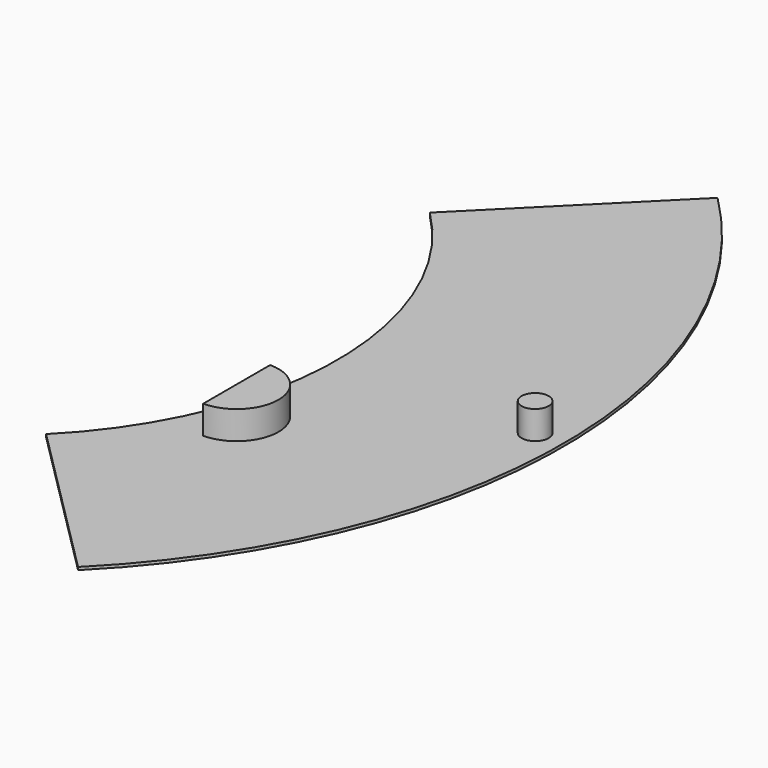
from build123d import *

# Parameters (mm, degrees)
F1_DEPTH = 0.635
F4_DEPTH = 25.4
F2_R     = 3.048
F6_DEPTH = 6.35
F7_DEPTH = 6.35


with BuildPart() as f1:
    # F0 (on Top) → F1 (new body)
    with BuildSketch(Plane.XY):
        with BuildLine():
            Line((0, 0), (89.802561, -89.802561))
            ThreePointArc((89.802561, -89.802561), (127, 0), (89.802561, 89.802561))
            Line((89.802561, 89.802561), (0, 0))
        make_face()
    extrude(amount=F1_DEPTH)

    # F3 (on face) → F4 (intersect)
    with BuildSketch(Plane.XY.offset(0.635)):
        with BuildLine():
            ThreePointArc((53.881537, 53.881537), (76.2, 0), (53.881537, -53.881537))
            Line((53.881537, -53.881537), (89.802561, -89.802561))
            ThreePointArc((89.802561, -89.802561), (127, 0), (89.802561, 89.802561))
            Line((89.802561, 89.802561), (53.881537, 53.881537))
        make_face()
    extrude(amount=-F4_DEPTH, mode=Mode.INTERSECT)

    # F2 (on face) → F6 (join)
    with BuildSketch(Plane.XY.offset(0.635)):
        with Locations((120.65, 0)):
            Circle(F2_R)
    extrude(amount=F6_DEPTH)

    # F5 (on face) → F7 (join)
    with BuildSketch(Plane.XY.offset(0.635)):
        with BuildLine():
            Line((75.810533, -18.372254), (75.810533, -37.168254))
            ThreePointArc((75.810533, -37.168254), (85.208533, -27.770254), (75.810533, -18.372254))
        make_face()
    extrude(amount=F7_DEPTH)


solid = f1.part
